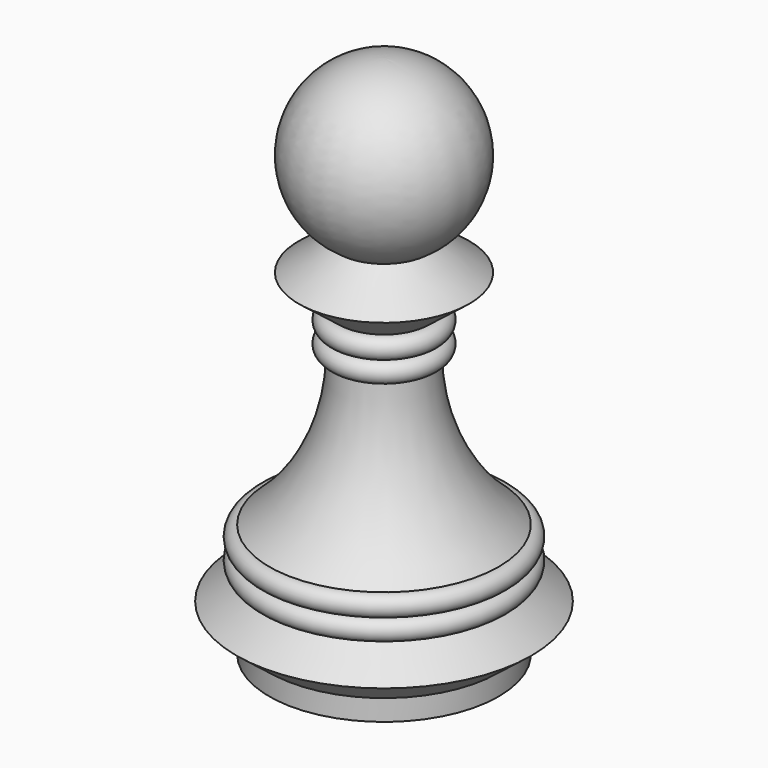
from build123d import *


with BuildPart() as f1:
    # F0 (on Front) → F1 (revolve)
    with BuildSketch(Plane.XZ):
        with BuildLine():
            Line((0, 50.8), (0, 0))
            Line((0, 0), (11.1125, 0))
            Line((11.1125, 0), (11.1125, 2.032))
            Line((11.1125, 2.032), (14.2875, 4.512582))
            Line((14.2875, 4.512582), (11.1125, 6.993164))
            ThreePointArc((11.1125, 6.993164), (12.1285, 8.009164), (11.1125, 9.025164))
            ThreePointArc((11.1125, 9.025164), (12.1285, 10.041164), (11.1125, 11.057164))
            ThreePointArc((11.1125, 11.057164), (6.18014, 17.530364), (4.399409, 25.471364))
            ThreePointArc((4.399409, 25.471364), (5.415409, 26.487364), (4.399409, 27.503364))
            ThreePointArc((4.399409, 27.503364), (5.415409, 28.519364), (4.399409, 29.535364))
            Line((4.399409, 29.535364), (8.255, 32.547682))
            Line((8.255, 32.547682), (4.399409, 35.56))
            ThreePointArc((4.399409, 35.56), (7.931147, 44.834525), (0, 50.8))
        make_face()
    revolve(axis=Axis((0, 0, 25.4), (0, 0, 1)))


solid = f1.part
